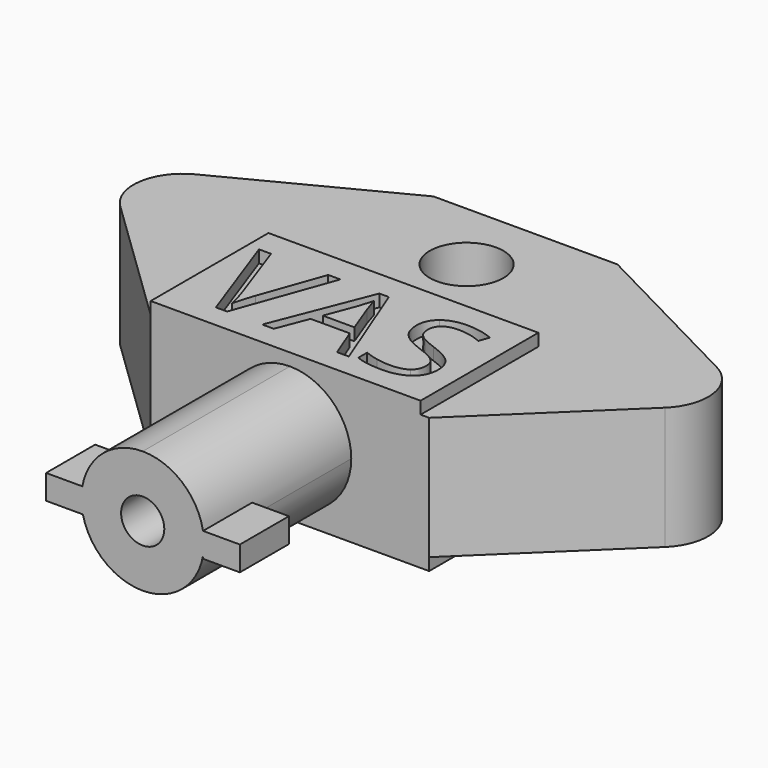
from build123d import *

# Parameters (mm, degrees)
F0_R      = 3
F1_DEPTH  = 5
F2_R      = 1.7610809182
F3_DEPTH  = 15
F5_DEPTH  = 5
F6_W      = 22
F6_H      = 12
F7_DEPTH  = 1
F9_DEPTH  = 1
F10_DEPTH = 1


with BuildPart() as f1:
    # F0 (on Top) → F1 (new body, symmetric)
    with BuildSketch(Plane.XY):
        with BuildLine():
            Line((7.5, 6), (-7.5, 6))
            Line((-7.5, 6), (-21.2545811556, -1.0983172864))
            ThreePointArc((-21.2545811556, -1.0983172864), (-23.3778564167, -4.0725637723), (-22.1978447385, -7.5311780081))
            Line((-22.1978447385, -7.5311780081), (-11.3497786224, -18))
            Line((-11.3497786224, -18), (-5, -18))
            Line((-5, -18), (5, -18))
            Line((5, -18), (11.3497786224, -18))
            Line((11.3497786224, -18), (22.1978447385, -7.5311780081))
            ThreePointArc((22.1978447385, -7.5311780081), (23.3778564167, -4.0725637723), (21.2545811556, -1.0983172864))
            Line((21.2545811556, -1.0983172864), (7.5, 6))
        make_face()
        Circle(F0_R, mode=Mode.SUBTRACT)
    extrude(amount=F1_DEPTH, both=True)

    # F2 (on face) → F3 (join)
    with BuildSketch(Plane.XZ.offset(18)):
        with BuildLine():
            ThreePointArc((0, -5), (3.5355339059, -3.5355339059), (5, 0))
            ThreePointArc((5, 0), (3.5355339126, 3.5355338993), (1.89e-08, 5))
            ThreePointArc((1.89e-08, 5), (-5, 9.4e-09), (0, -5))
        make_face()
        Circle(F2_R, mode=Mode.SUBTRACT)
    extrude(amount=F3_DEPTH)

    # F4 (on face) → F5 (join)
    with BuildSketch(Plane.XZ.offset(33)):
        with BuildLine():
            Line((-7.8751421592, -1.1104003458), (-4.8751421592, -1.1104003458))
            ThreePointArc((-4.8751421592, -1.1104003458), (-4.9987302039, -0.1126780739), (-4.9202248379, 0.8895996542))
            Line((-4.9202248379, 0.8895996542), (-7.8751421592, 0.8895996542))
            Line((-7.8751421592, 0.8895996542), (-7.8751421592, -1.1104003458))
        make_face()
        with BuildLine():
            ThreePointArc((5, 0), (4.9800162745, -0.4465847123), (4.9202248379, -0.8895996542))
            Line((4.9202248379, -0.8895996542), (4.9202248379, -1.1104003458))
            Line((4.9202248379, -1.1104003458), (7.9202248379, -1.1104003458))
            Line((7.9202248379, -1.1104003458), (7.9202248379, 0.8895996542))
            Line((7.9202248379, 0.8895996542), (4.9202248379, 0.8895996542))
            ThreePointArc((4.9202248379, 0.8895996542), (4.9800162745, 0.4465847123), (5, 0))
        make_face()
    extrude(amount=-F5_DEPTH)

    # F6 (on face) → F7 (join)
    with BuildSketch(Plane(origin=(0, 0, -5), x_dir=(1, 0, 0), z_dir=(0, 0, -1))):
        with Locations((0.3497786224, 12)):
            Rectangle(F6_W, F6_H)
    extrude(amount=F7_DEPTH)

    # F8 (on face) → F9 (join)
    with BuildSketch(Plane.XY.offset(5)):
        Polygon((-11.3497786224, -6), (-11.3497786224, -18), (1.08e-08, -18), (10.6502213776, -18), (10.6502213776, -6), align=None)
        with BuildLine():
            Line((-6.5919761548, -13.2537334136), (-4.7731608238, -8.1352665147))
            Line((-4.7731608238, -8.1352665147), (-3.7783873047, -8.1352665147))
            Line((-3.7783873047, -8.1352665147), (-6.6459831235, -16.0951968282))
            Line((-6.6459831235, -16.0951968282), (-7.5606172698, -16.0951968282))
            Line((-7.5606172698, -16.0951968282), (-10.4142758064, -8.1352665147))
            Line((-10.4142758064, -8.1352665147), (-9.4334395695, -8.1352665147))
            Line((-9.4334395695, -8.1352665147), (-7.6041712768, -13.2850922986))
            add(Edge.make_bspline(
                [(-7.6041712768, -13.2850922986), (-7.2888402663, -14.1735940408), (-7.1041712768, -15.0115731349)],
                knots=[0, 0, 0, 1, 1, 1], degree=2))
            add(Edge.make_bspline(
                [(-7.1041712768, -15.0115731349), (-6.9073071653, -14.1300400338), (-6.5919761548, -13.2537334136)],
                knots=[0, 0, 0, 1, 1, 1], degree=2))
        make_face(mode=Mode.SUBTRACT)
        Polygon((3.2773618243, -16.0951968282), (2.319173671, -16.0951968282), (1.3278844723, -13.5638379432), (-1.862010998, -13.5638379432), (-2.8411050747, -16.0951968282), (-3.7783873047, -16.0951968282), (-0.6320458412, -8.1021654694), (0.1466998034, -8.1021654694), align=None, mode=Mode.SUBTRACT)
        with BuildLine():
            add(Edge.make_bspline(
                [(8.3923444027, -12.6492037969), (8.8627276779, -13.1613989188), (8.8627276779, -13.9767299293)],
                knots=[0, 0, 0, 1, 1, 1], degree=2))
            add(Edge.make_bspline(
                [(8.8627276779, -13.9767299293), (8.8627276779, -15.0272525774), (8.100532556, -15.6161027516)],
                knots=[0, 0, 0, 1, 1, 1], degree=2))
            add(Edge.make_bspline(
                [(8.100532556, -15.6161027516), (7.338337434, -16.2049529258), (6.031717225, -16.2049529258)],
                knots=[0, 0, 0, 1, 1, 1], degree=2))
            add(Edge.make_bspline(
                [(6.031717225, -16.2049529258), (4.6170830786, -16.2049529258), (3.8540168765, -15.8390992673)],
                knots=[0, 0, 0, 1, 1, 1], degree=2))
            Line((3.8540168765, -15.8390992673), (3.8540168765, -14.9471132046))
            add(Edge.make_bspline(
                [(3.8540168765, -14.9471132046), (4.3453060751, -15.1526881174), (4.9219611274, -15.2728971767)],
                knots=[0, 0, 0, 1, 1, 1], degree=2))
            add(Edge.make_bspline(
                [(4.9219611274, -15.2728971767), (5.4986161797, -15.3931062359), (6.0648182703, -15.3931062359)],
                knots=[0, 0, 0, 1, 1, 1], degree=2))
            add(Edge.make_bspline(
                [(6.0648182703, -15.3931062359), (6.9899053783, -15.3931062359), (7.4585464933, -15.0420609397)],
                knots=[0, 0, 0, 1, 1, 1], degree=2))
            add(Edge.make_bspline(
                [(7.4585464933, -15.0420609397), (7.9271876082, -14.6910156436), (7.9271876082, -14.0638379432)],
                knots=[0, 0, 0, 1, 1, 1], degree=2))
            add(Edge.make_bspline(
                [(7.9271876082, -14.0638379432), (7.9271876082, -13.6509459572), (7.7608113016, -13.3870086749)],
                knots=[0, 0, 0, 1, 1, 1], degree=2))
            add(Edge.make_bspline(
                [(7.7608113016, -13.3870086749), (7.594434995, -13.1230713927), (7.2050621727, -12.8992037969)],
                knots=[0, 0, 0, 1, 1, 1], degree=2))
            add(Edge.make_bspline(
                [(7.2050621727, -12.8992037969), (6.8156893504, -12.6753362011), (6.0212642633, -12.3931062359)],
                knots=[0, 0, 0, 1, 1, 1], degree=2))
            add(Edge.make_bspline(
                [(6.0212642633, -12.3931062359), (4.9115081657, -11.9958936924), (4.4350273295, -11.4514686052)],
                knots=[0, 0, 0, 1, 1, 1], degree=2))
            add(Edge.make_bspline(
                [(4.4350273295, -11.4514686052), (3.9585464933, -10.9070435181), (3.9585464933, -10.0307368979)],
                knots=[0, 0, 0, 1, 1, 1], degree=2))
            add(Edge.make_bspline(
                [(3.9585464933, -10.0307368979), (3.9585464933, -9.1108762708), (4.6493130438, -8.5664511836)],
                knots=[0, 0, 0, 1, 1, 1], degree=2))
            add(Edge.make_bspline(
                [(4.6493130438, -8.5664511836), (5.3400795943, -8.0220260965), (6.4794524166, -8.0220260965)],
                knots=[0, 0, 0, 1, 1, 1], degree=2))
            add(Edge.make_bspline(
                [(6.4794524166, -8.0220260965), (7.6658635664, -8.0220260965), (8.6623792459, -8.4575661662)],
                knots=[0, 0, 0, 1, 1, 1], degree=2))
            Line((8.6623792459, -8.4575661662), (8.3731806396, -9.262444215))
            add(Edge.make_bspline(
                [(8.3731806396, -9.262444215), (7.3871179218, -8.8495522289), (6.456804333, -8.8495522289)],
                knots=[0, 0, 0, 1, 1, 1], degree=2))
            add(Edge.make_bspline(
                [(6.456804333, -8.8495522289), (5.7216126953, -8.8495522289), (5.3078496291, -9.1648832394)],
                knots=[0, 0, 0, 1, 1, 1], degree=2))
            add(Edge.make_bspline(
                [(5.3078496291, -9.1648832394), (4.8940865629, -9.4802142498), (4.8940865629, -10.0411898596)],
                knots=[0, 0, 0, 1, 1, 1], degree=2))
            add(Edge.make_bspline(
                [(4.8940865629, -10.0411898596), (4.8940865629, -10.4540818457), (5.0465255873, -10.718890208)],
                knots=[0, 0, 0, 1, 1, 1], degree=2))
            add(Edge.make_bspline(
                [(5.0465255873, -10.718890208), (5.1989646117, -10.9836985704), (5.5613339497, -11.2040818457)],
                knots=[0, 0, 0, 1, 1, 1], degree=2))
            add(Edge.make_bspline(
                [(5.5613339497, -11.2040818457), (5.9237032877, -11.4244651209), (6.669347887, -11.6910156436)],
                knots=[0, 0, 0, 1, 1, 1], degree=2))
            add(Edge.make_bspline(
                [(6.669347887, -11.6910156436), (7.9219611274, -12.1370086749), (8.3923444027, -12.6492037969)],
                knots=[0, 0, 0, 1, 1, 1], degree=2))
        make_face(mode=Mode.SUBTRACT)
    extrude(amount=F9_DEPTH)

    # F8 (on face) → F10 (join)
    with BuildSketch(Plane.XY.offset(5)):
        with BuildLine():
            Line((-1.5344848656, -12.73108533), (1.0404280264, -12.73108533))
            Line((1.0404280264, -12.73108533), (0.1135987581, -10.2641863753))
            add(Edge.make_bspline(
                [(0.1135987581, -10.2641863753), (-0.0658437506, -9.7955452603), (-0.255739221, -9.1161027516)],
                knots=[0, 0, 0, 1, 1, 1], degree=2))
            add(Edge.make_bspline(
                [(-0.255739221, -9.1161027516), (-0.3759482803, -9.6387508352), (-0.5989447959, -10.2641863753)],
                knots=[0, 0, 0, 1, 1, 1], degree=2))
            Line((-0.5989447959, -10.2641863753), (-1.5344848656, -12.73108533))
        make_face()
    extrude(amount=F10_DEPTH)


solid = f1.part
